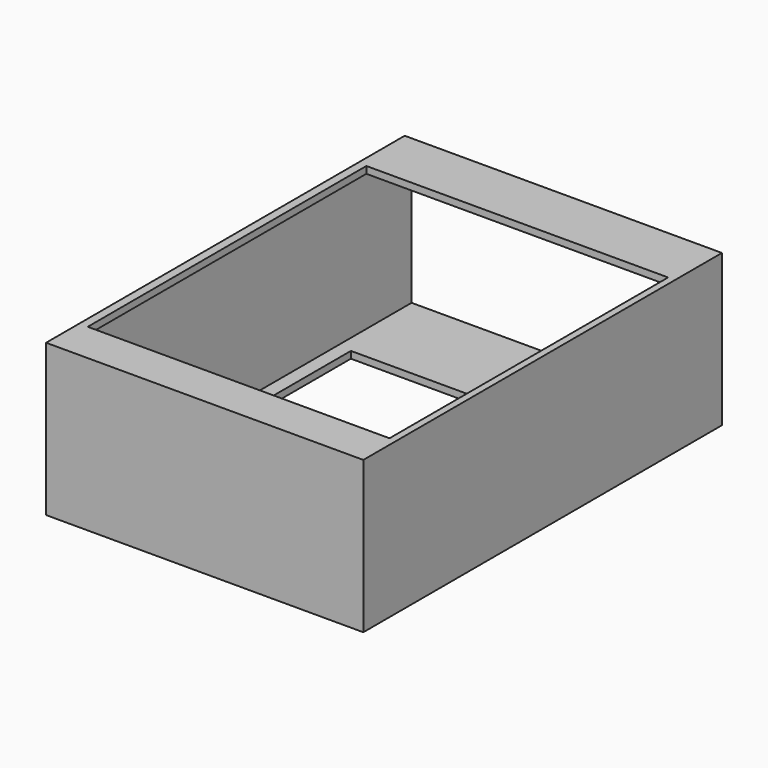
from build123d import *

# Parameters (mm, degrees)
SKETCH_W        = 92
SKETCH_H        = 130
PAD_DEPTH       = 44
SKETCH001_W     = 88
SKETCH001_H     = 126
POCKET_DEPTH    = 40
SKETCH002_W     = 87.518665
SKETCH002_H     = 101
POCKET001_DEPTH = 2
SKETCH004_W     = 80
SKETCH004_H     = 80
POCKET003_DEPTH = 2
SKETCH005_W     = 88
SKETCH005_H     = 40
POCKET004_DEPTH = 2


with BuildPart() as part:
    # Sketch → Pad (new body)
    with BuildSketch(Plane.XY):
        Rectangle(SKETCH_W, SKETCH_H)
    extrude(amount=PAD_DEPTH)

    # Sketch001 → Pocket (cut)
    with BuildSketch(Plane.XY.offset(42)):
        Rectangle(SKETCH001_W, SKETCH001_H)
    extrude(amount=-POCKET_DEPTH, mode=Mode.SUBTRACT)

    # Sketch002 → Pocket001 (cut)
    with BuildSketch(Plane.XY.offset(44)):
        with Locations((0.240668, -2.5)):
            Rectangle(SKETCH002_W, SKETCH002_H)
    extrude(amount=-POCKET001_DEPTH, mode=Mode.SUBTRACT)

    # Sketch004 → Pocket003 (cut)
    with BuildSketch(Plane.XY):
        with Locations((0, -2)):
            Rectangle(SKETCH004_W, SKETCH004_H)
    extrude(amount=POCKET003_DEPTH, mode=Mode.SUBTRACT)

    # Sketch005 → Pocket004 (cut)
    with BuildSketch(Plane.XZ.offset(-65)):
        with Locations((0, 22)):
            Rectangle(SKETCH005_W, SKETCH005_H)
    extrude(amount=POCKET004_DEPTH, mode=Mode.SUBTRACT)


solid = part.part
